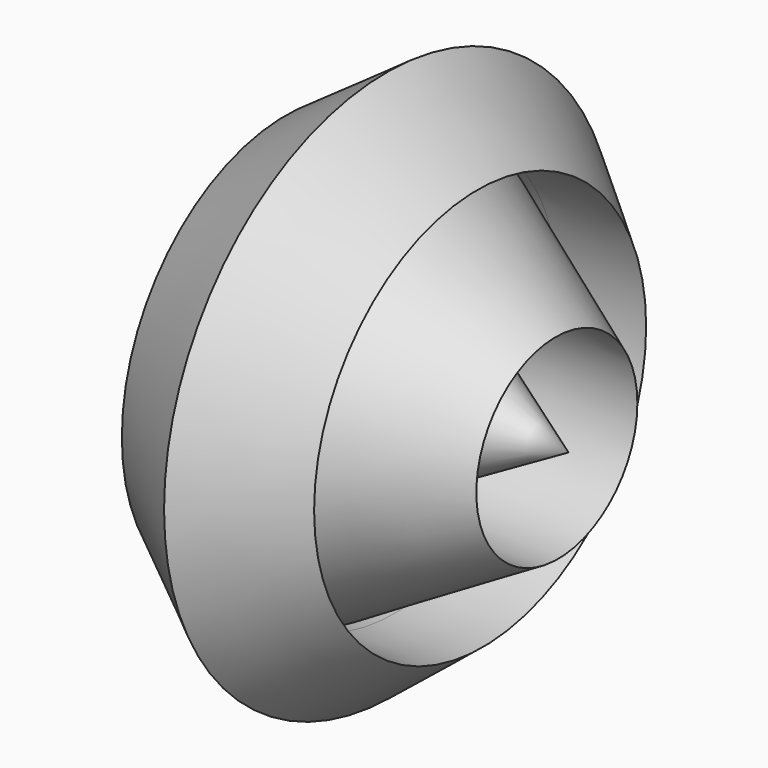
from build123d import *


with BuildPart() as f1:
    # F0 (on Top) → F1 (revolve)
    with BuildSketch(Plane.XY):
        Polygon((0, 38.9608962168), (0, 70.7477629185), (-45.5229319632, 40.0050021708), (-5.1088934684, 39.078072898), align=None)
        Polygon((38.9808552181, 38.0668381833), (0, 70.7477629185), (0, 38.9608962168), align=None)
    revolve(axis=Axis((-0.1970678568, -49.1687059402, 0), (0.9998132301, -0.0193262749, 0)))


with BuildPart() as f1b:
    # F0 (on Top) → F1, piece 2 (revolve)
    with BuildSketch(Plane.XY):
        Polygon((71.9301700592, -7.8827580437), (0, 35.9638361526), (0, -5.9106468893), align=None)
        Polygon((0, 35.9638361526), (-5.1088934684, 39.078072898), (-64.6386221051, -4.1384482756), (0, -5.9106468893), align=None)
    revolve(axis=Axis((-0.1970678568, -49.1687059402, 0), (0.9998132301, -0.0193262749, 0)))


with BuildPart() as f1c:
    # F0 (on Top) → F1, piece 3 (revolve)
    with BuildSketch(Plane.XY):
        Polygon((76.2656927109, -50.6467223167), (0, -5.9106468893), (0, -49.1725152393), align=None)
        Polygon((0, -49.1725152393), (0, -5.9106468893), (-76.6598284245, -47.6906895638), align=None)
    revolve(axis=Axis((-0.1970678568, -49.1687059402, 0), (0.9998132301, -0.0193262749, 0)))


solid = Compound([f1.part, f1b.part, f1c.part])
